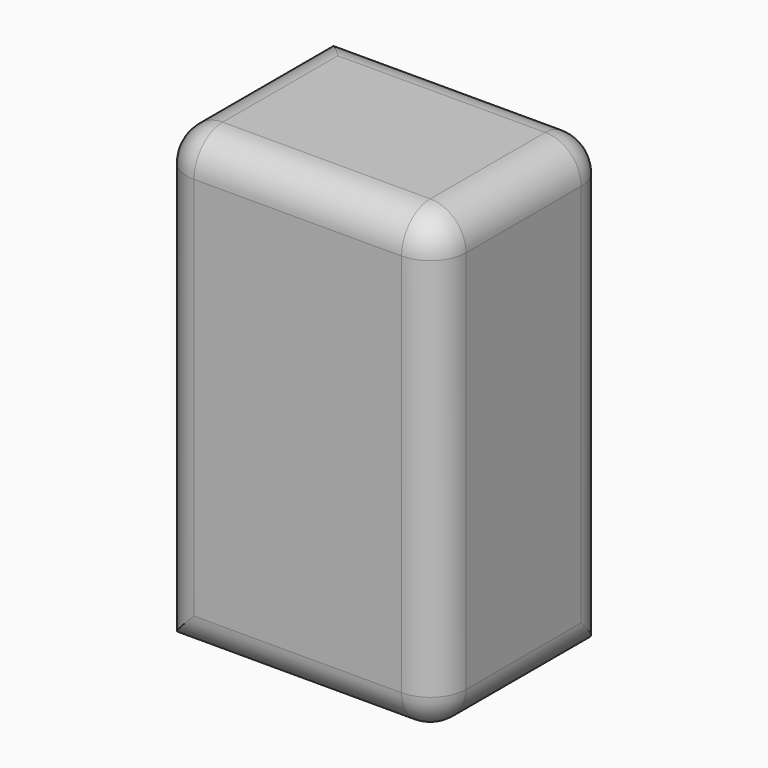
from build123d import *

# Parameters (mm, degrees)
F0_W     = 202.429667
F0_H     = 428.442776
F1_DEPTH = 262.275457
F3_R     = 33.614815


with BuildPart() as f1:
    # F0 (on Right) → F1 (new body)
    with BuildSketch(Plane.YZ):
        with Locations((101.214833, -214.221388)):
            Rectangle(F0_W, F0_H)
        with Locations((101.214833, -214.221388)):
            Rectangle(F0_W, F0_H)
    extrude(amount=F1_DEPTH)

    # F3
    f3_edges = [f1.edges().sort_by_distance(p)[0] for p in [
        (262.275457, 101.214834, 0),
        (262.275457, 0, -214.221388),
        (262.275457, 101.214834, -428.442776),
        (262.275457, 202.429667, -214.221388),
        (131.137729, 0, 0),
        (131.137729, 0, -428.442776),
        (0, 0, -214.221388),
        (131.137729, 202.429667, 0),
        (0, 101.214834, 0),
    ]]
    fillet(f3_edges, radius=F3_R)


solid = f1.part
